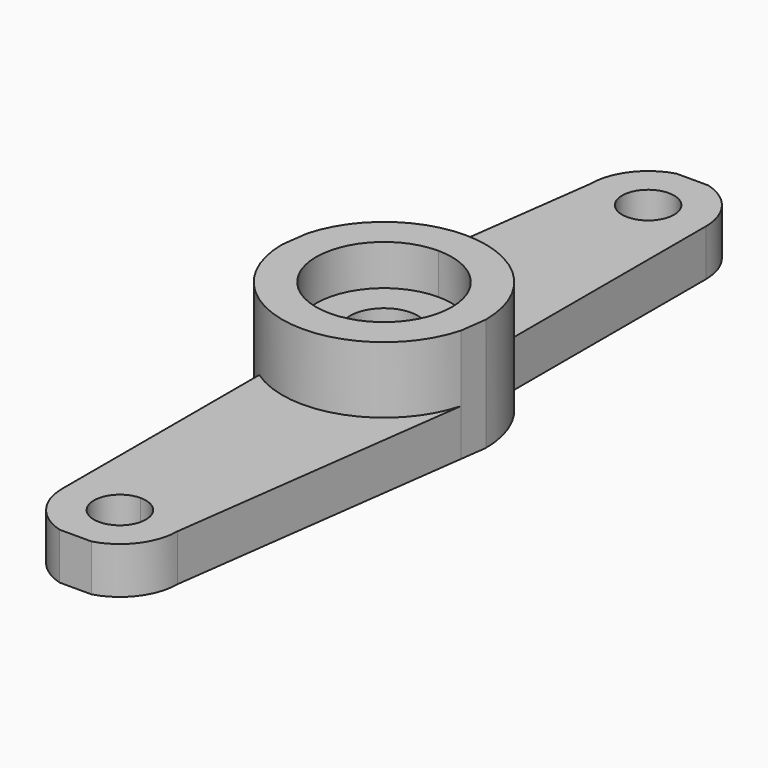
from build123d import *

# Parameters (mm, degrees)
F1_DEPTH = 2.06
F2_DEPTH = 3.2
F3_DEPTH = 5
F4_DEPTH = 1.4


with BuildPart() as f1:
    # F0 (on Top) → F1 (new body)
    with BuildSketch(Plane.XY):
        with BuildLine():
            ThreePointArc((0, -12.05), (1.803122292, -12.796877708), (2.55, -14.6))
            Line((2.55, -14.6), (4.3422653684, -1.1809874978))
            ThreePointArc((4.3422653684, -1.1809874978), (2.7327235736, -3.5752233315), (0, -4.5))
            Line((0, -4.5), (0, -12.05))
        make_face()
        with BuildLine():
            Line((-0.7071067812, -17.05), (0.7071067812, -17.05))
            ThreePointArc((0.7071067812, -17.05), (2.0378447306, -16.1328694837), (2.55, -14.6))
            ThreePointArc((2.55, -14.6), (1.803122292, -12.796877708), (0, -12.05))
            ThreePointArc((0, -12.05), (-1.803122292, -12.796877708), (-2.55, -14.6))
            ThreePointArc((-2.55, -14.6), (-2.0378447306, -16.1328694837), (-0.7071067812, -17.05))
        make_face()
        with BuildLine():
            ThreePointArc((1.15, -14.6), (-0.8131727984, -15.4131727984), (0, -13.45))
            ThreePointArc((0, -13.45), (0.8131727984, -13.7868272016), (1.15, -14.6))
        make_face(mode=Mode.SUBTRACT)
        with BuildLine():
            Line((-2.55, -3.7077621283), (-2.55, -14.6))
            ThreePointArc((-2.55, -14.6), (-1.803122292, -12.796877708), (0, -12.05))
            Line((0, -12.05), (0, -4.5))
            ThreePointArc((0, -4.5), (-1.335116179, -4.2973788277), (-2.55, -3.7077621283))
        make_face()
        with BuildLine():
            Line((0, 3), (0, 4.5))
            ThreePointArc((0, 4.5), (-2.7327235736, 3.5752233315), (-4.3422653684, 1.1809874978))
            Line((-4.3422653684, 1.1809874978), (-4.5, 0))
            ThreePointArc((-4.5, 0), (-3.9827754142, -2.0946360066), (-2.55, -3.7077621283))
            ThreePointArc((-2.55, -3.7077621283), (-1.335116179, -4.2973788277), (0, -4.5))
            Line((0, -4.5), (0, -3))
            ThreePointArc((0, -3), (-3, 0), (0, 3))
        make_face()
        with BuildLine():
            Line((0, 1.5), (0, 3))
            ThreePointArc((0, 3), (-3, 0), (0, -3))
            Line((0, -3), (0, -1.5))
            ThreePointArc((0, -1.5), (-1.5, 0), (0, 1.5))
        make_face()
        with BuildLine():
            ThreePointArc((-4.3422653684, 1.1809874978), (-2.7327235736, 3.5752233315), (0, 4.5))
            Line((0, 4.5), (0, 12.05))
            ThreePointArc((0, 12.05), (-1.803122292, 12.796877708), (-2.55, 14.6))
            Line((-2.55, 14.6), (-4.3422653684, 1.1809874978))
        make_face()
        with BuildLine():
            ThreePointArc((0, 4.5), (1.335116179, 4.2973788277), (2.55, 3.7077621283))
            Line((2.55, 3.7077621283), (2.55, 14.6))
            ThreePointArc((2.55, 14.6), (1.803122292, 12.796877708), (0, 12.05))
            Line((0, 12.05), (0, 4.5))
        make_face()
        with BuildLine():
            ThreePointArc((2.55, 14.6), (2.0378447306, 16.1328694837), (0.7071067812, 17.05))
            Line((0.7071067812, 17.05), (-0.7071067812, 17.05))
            ThreePointArc((-0.7071067812, 17.05), (-2.0378447306, 16.1328694837), (-2.55, 14.6))
            ThreePointArc((-2.55, 14.6), (-1.803122292, 12.796877708), (0, 12.05))
            ThreePointArc((0, 12.05), (1.803122292, 12.796877708), (2.55, 14.6))
        make_face()
        with BuildLine():
            ThreePointArc((1.15, 14.6), (0.8131727984, 13.7868272016), (0, 13.45))
            ThreePointArc((0, 13.45), (-0.8131727984, 15.4131727984), (1.15, 14.6))
        make_face(mode=Mode.SUBTRACT)
        with BuildLine():
            Line((4.3422653684, -1.1809874978), (4.5, 0))
            ThreePointArc((4.5, 0), (3.9827754142, 2.0946360066), (2.55, 3.7077621283))
            ThreePointArc((2.55, 3.7077621283), (1.335116179, 4.2973788277), (0, 4.5))
            Line((0, 4.5), (0, 3))
            ThreePointArc((0, 3), (2.1213203436, 2.1213203436), (3, 0))
            ThreePointArc((3, 0), (2.1213203436, -2.1213203436), (0, -3))
            Line((0, -3), (0, -4.5))
            ThreePointArc((0, -4.5), (2.7327235736, -3.5752233315), (4.3422653684, -1.1809874978))
        make_face()
        with BuildLine():
            ThreePointArc((3, 0), (2.1213203436, 2.1213203436), (0, 3))
            Line((0, 3), (0, 1.5))
            ThreePointArc((0, 1.5), (1.0606601718, 1.0606601718), (1.5, 0))
            ThreePointArc((1.5, 0), (1.0606601718, -1.0606601718), (0, -1.5))
            Line((0, -1.5), (0, -3))
            ThreePointArc((0, -3), (2.1213203436, -2.1213203436), (3, 0))
        make_face()
    extrude(amount=F1_DEPTH)

    # F0 (on Top) → F2 (join)
    with BuildSketch(Plane.XY):
        with BuildLine():
            Line((0, 1.5), (0, 3))
            ThreePointArc((0, 3), (-3, 0), (0, -3))
            Line((0, -3), (0, -1.5))
            ThreePointArc((0, -1.5), (-1.5, 0), (0, 1.5))
        make_face()
        with BuildLine():
            ThreePointArc((3, 0), (2.1213203436, 2.1213203436), (0, 3))
            Line((0, 3), (0, 1.5))
            ThreePointArc((0, 1.5), (1.0606601718, 1.0606601718), (1.5, 0))
            ThreePointArc((1.5, 0), (1.0606601718, -1.0606601718), (0, -1.5))
            Line((0, -1.5), (0, -3))
            ThreePointArc((0, -3), (2.1213203436, -2.1213203436), (3, 0))
        make_face()
    extrude(amount=F2_DEPTH)

    # F0 (on Top) → F3 (join)
    with BuildSketch(Plane.XY):
        with BuildLine():
            Line((0, 3), (0, 4.5))
            ThreePointArc((0, 4.5), (-2.7327235736, 3.5752233315), (-4.3422653684, 1.1809874978))
            Line((-4.3422653684, 1.1809874978), (-4.5, 0))
            ThreePointArc((-4.5, 0), (-3.9827754142, -2.0946360066), (-2.55, -3.7077621283))
            ThreePointArc((-2.55, -3.7077621283), (-1.335116179, -4.2973788277), (0, -4.5))
            Line((0, -4.5), (0, -3))
            ThreePointArc((0, -3), (-3, 0), (0, 3))
        make_face()
        with BuildLine():
            Line((4.3422653684, -1.1809874978), (4.5, 0))
            ThreePointArc((4.5, 0), (3.9827754142, 2.0946360066), (2.55, 3.7077621283))
            ThreePointArc((2.55, 3.7077621283), (1.335116179, 4.2973788277), (0, 4.5))
            Line((0, 4.5), (0, 3))
            ThreePointArc((0, 3), (2.1213203436, 2.1213203436), (3, 0))
            ThreePointArc((3, 0), (2.1213203436, -2.1213203436), (0, -3))
            Line((0, -3), (0, -4.5))
            ThreePointArc((0, -4.5), (2.7327235736, -3.5752233315), (4.3422653684, -1.1809874978))
        make_face()
    extrude(amount=F3_DEPTH)

    # F0 (on Top) → F4 (cut)
    with BuildSketch(Plane.XY):
        with BuildLine():
            Line((0, 1.5), (0, 3))
            ThreePointArc((0, 3), (-3, 0), (0, -3))
            Line((0, -3), (0, -1.5))
            ThreePointArc((0, -1.5), (-1.5, 0), (0, 1.5))
        make_face()
        with BuildLine():
            ThreePointArc((3, 0), (2.1213203436, 2.1213203436), (0, 3))
            Line((0, 3), (0, 1.5))
            ThreePointArc((0, 1.5), (1.0606601718, 1.0606601718), (1.5, 0))
            ThreePointArc((1.5, 0), (1.0606601718, -1.0606601718), (0, -1.5))
            Line((0, -1.5), (0, -3))
            ThreePointArc((0, -3), (2.1213203436, -2.1213203436), (3, 0))
        make_face()
    extrude(amount=F4_DEPTH, mode=Mode.SUBTRACT)


solid = f1.part
